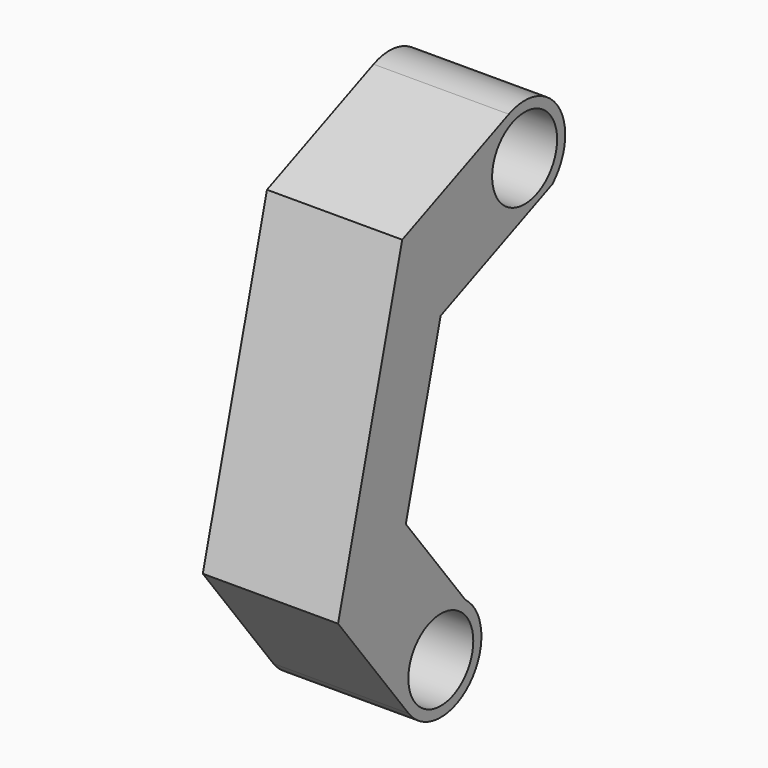
from build123d import *

# Parameters (mm, degrees)
F0_R     = 6
F1_DEPTH = 20


with BuildPart() as f1:
    # F0 (on Right) → F1 (new body)
    with BuildSketch(Plane.YZ):
        with BuildLine():
            ThreePointArc((20.621707, 53.528673), (21.779183, 63.089069), (12.570696, 65.907704))
            Line((12.570696, 65.907704), (-7.127941, 57.577239))
            Line((-7.127941, 57.577239), (-18.986151, 12.416034))
            Line((-18.986151, 12.416034), (-5.949228, -4.566912))
            ThreePointArc((-5.949228, -4.566912), (5.331222, -5.275232), (4.503849, 5.997112))
            Line((4.503849, 5.997112), (-6.468639, 20.290759))
            Line((-6.468639, 20.290759), (-0.034942, 44.793069))
            Line((-0.034942, 44.793069), (20.621707, 53.528673))
        make_face()
        Circle(F0_R, mode=Mode.SUBTRACT)
        with Locations((15.491933, 59)):
            Circle(F0_R, mode=Mode.SUBTRACT)
    extrude(amount=F1_DEPTH)


solid = f1.part
